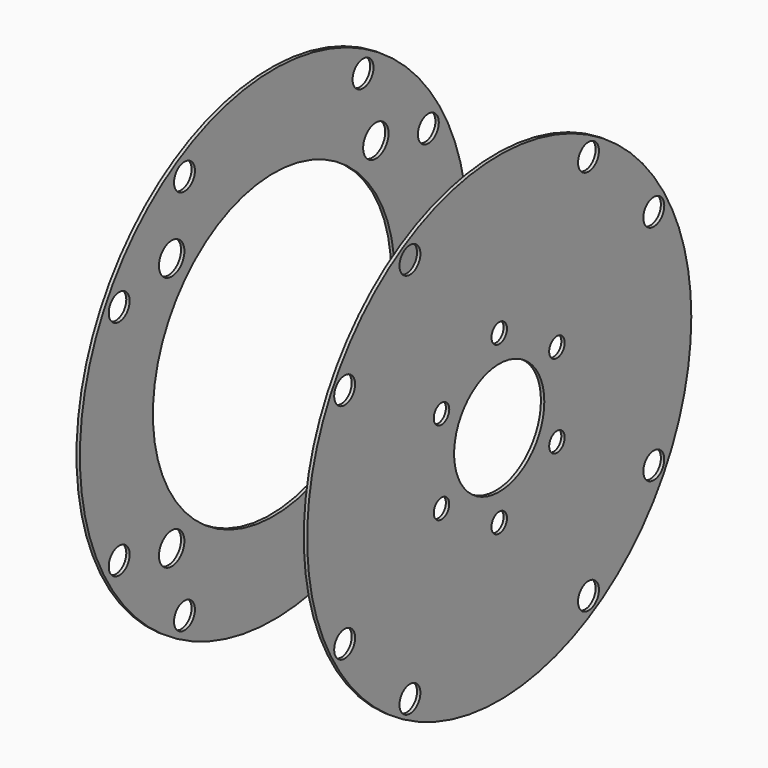
from build123d import *

# Parameters (mm, degrees)
F0_R     = 27.305
F0_R_2   = 1.7907
F0_R_3   = 1.4732
F0_R_4   = 17.018
F1_DEPTH = 0.381
F3_R     = 27.051
F3_R_2   = 1.4732
F3_R_3   = 1.0922
F3_R_4   = 6.35
F4_DEPTH = 0.381


with BuildPart() as f1:
    # F0 (on Right) → F1 (new body)
    with BuildSketch(Plane.YZ):
        Circle(F0_R)
        with Locations((-14.3764, -14.3764)):
            Circle(F0_R_2, mode=Mode.SUBTRACT)
        with Locations((-12.573, -21.7678)):
            Circle(F0_R_3, mode=Mode.SUBTRACT)
        with Locations((-21.7678, -12.573)):
            Circle(F0_R_3, mode=Mode.SUBTRACT)
        with Locations((12.573, -21.7678)):
            Circle(F0_R_3, mode=Mode.SUBTRACT)
        with Locations((14.3764, -14.3764)):
            Circle(F0_R_2, mode=Mode.SUBTRACT)
        with Locations((21.7678, -12.573)):
            Circle(F0_R_3, mode=Mode.SUBTRACT)
        with Locations((-21.7678, 12.573)):
            Circle(F0_R_3, mode=Mode.SUBTRACT)
        with Locations((-14.3764, 14.3764)):
            Circle(F0_R_2, mode=Mode.SUBTRACT)
        with Locations((-12.573, 21.7678)):
            Circle(F0_R_3, mode=Mode.SUBTRACT)
        Circle(F0_R_4, mode=Mode.SUBTRACT)
        with Locations((21.7678, 12.573)):
            Circle(F0_R_3, mode=Mode.SUBTRACT)
        with Locations((12.573, 21.7678)):
            Circle(F0_R_3, mode=Mode.SUBTRACT)
        with Locations((14.3764, 14.3764)):
            Circle(F0_R_2, mode=Mode.SUBTRACT)
    extrude(amount=-F1_DEPTH)


with BuildPart() as f4:
    # F3 (on offset) → F4 (new body)
    with BuildSketch(Plane.YZ.offset(25.4)):
        Circle(F3_R)
        with Locations((-12.573, -21.7678)):
            Circle(F3_R_2, mode=Mode.SUBTRACT)
        with Locations((-21.7678, -12.573)):
            Circle(F3_R_2, mode=Mode.SUBTRACT)
        with Locations((-8.128, -4.699)):
            Circle(F3_R_3, mode=Mode.SUBTRACT)
        with Locations((12.573, -21.7678)):
            Circle(F3_R_2, mode=Mode.SUBTRACT)
        with Locations((0, -9.398)):
            Circle(F3_R_3, mode=Mode.SUBTRACT)
        with Locations((8.128, -4.699)):
            Circle(F3_R_3, mode=Mode.SUBTRACT)
        with Locations((21.7678, -12.573)):
            Circle(F3_R_2, mode=Mode.SUBTRACT)
        with Locations((-21.7678, 12.573)):
            Circle(F3_R_2, mode=Mode.SUBTRACT)
        with Locations((-8.128, 4.699)):
            Circle(F3_R_3, mode=Mode.SUBTRACT)
        with Locations((-12.573, 21.7678)):
            Circle(F3_R_2, mode=Mode.SUBTRACT)
        Circle(F3_R_4, mode=Mode.SUBTRACT)
        with Locations((8.128, 4.699)):
            Circle(F3_R_3, mode=Mode.SUBTRACT)
        with Locations((0, 9.398)):
            Circle(F3_R_3, mode=Mode.SUBTRACT)
        with Locations((21.7678, 12.573)):
            Circle(F3_R_2, mode=Mode.SUBTRACT)
        with Locations((12.573, 21.7678)):
            Circle(F3_R_2, mode=Mode.SUBTRACT)
    extrude(amount=-F4_DEPTH)


solid = Compound([f1.part, f4.part])
